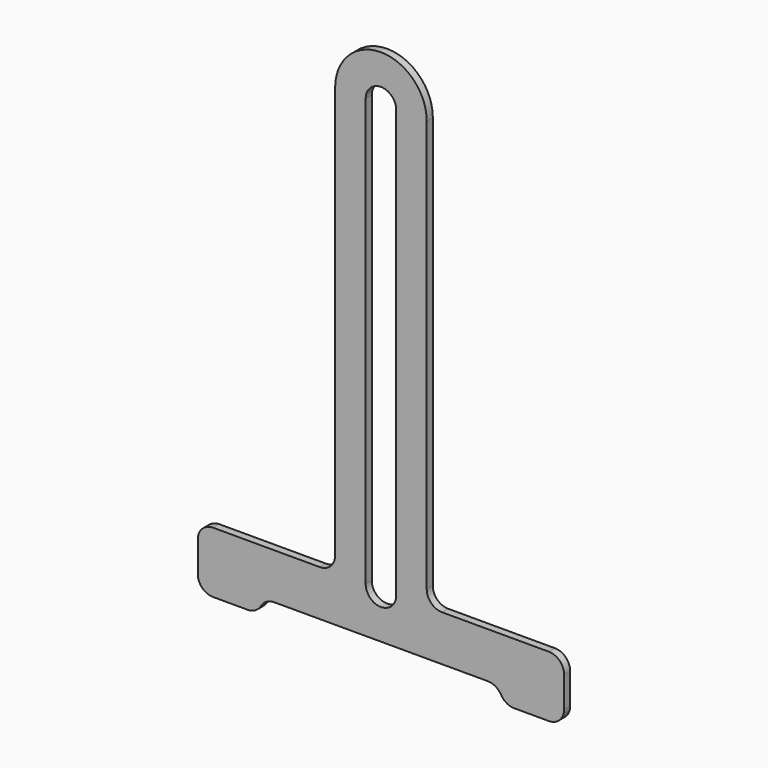
from build123d import *

# Parameters (mm, degrees)
F1_DEPTH = 3.175


with BuildPart() as f1:
    # F0 (on Front) → F1 (new body)
    with BuildSketch(Plane.XZ):
        with BuildLine():
            ThreePointArc((-58.752502, 203.2), (-77.802502, 222.25), (-96.852502, 203.2))
            Line((-96.852502, 203.2), (-96.852502, 31.75))
            ThreePointArc((-96.852502, 31.75), (-98.712374, 27.259872), (-103.202502, 25.4))
            Line((-103.202502, 25.4), (-147.652502, 25.4))
            ThreePointArc((-147.652502, 25.4), (-152.14263, 23.540128), (-154.002502, 19.05))
            Line((-154.002502, 19.05), (-154.002502, 6.35))
            ThreePointArc((-154.002502, 6.35), (-152.14263, 1.859872), (-147.652502, 0))
            Line((-147.652502, 0), (-133.251025, 0))
            ThreePointArc((-133.251025, 0), (-130.076025, 0.850739), (-127.751763, 3.175))
            ThreePointArc((-127.751763, 3.175), (-125.427502, 5.499261), (-122.252502, 6.35))
            Line((-122.252502, 6.35), (-33.352502, 6.35))
            ThreePointArc((-33.352502, 6.35), (-30.177502, 5.499261), (-27.853241, 3.175))
            ThreePointArc((-27.853241, 3.175), (-25.528979, 0.850739), (-22.353979, 0))
            Line((-22.353979, 0), (-7.952502, 0))
            ThreePointArc((-7.952502, 0), (-3.462374, 1.859872), (-1.602502, 6.35))
            Line((-1.602502, 6.35), (-1.602502, 19.05))
            ThreePointArc((-1.602502, 19.05), (-3.462374, 23.540128), (-7.952502, 25.4))
            Line((-7.952502, 25.4), (-52.402502, 25.4))
            ThreePointArc((-52.402502, 25.4), (-56.89263, 27.259872), (-58.752502, 31.75))
            Line((-58.752502, 31.75), (-58.752502, 203.2))
        make_face()
        with BuildLine():
            Line((-84.152502, 25.4), (-84.152502, 203.2))
            ThreePointArc((-84.152502, 203.2), (-77.802502, 209.55), (-71.452502, 203.2))
            Line((-71.452502, 203.2), (-71.452502, 25.4))
            ThreePointArc((-71.452502, 25.4), (-77.802502, 19.05), (-84.152502, 25.4))
        make_face(mode=Mode.SUBTRACT)
    extrude(amount=F1_DEPTH)


solid = f1.part
